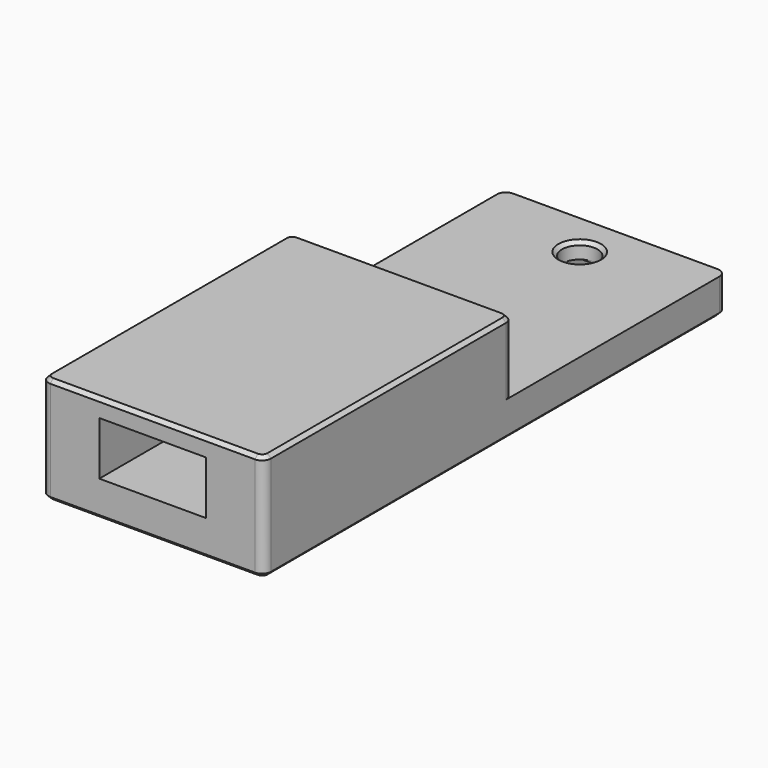
from build123d import *

# Parameters (mm, degrees)
SKETCH_W        = 25
SKETCH_H        = 65
PAD_DEPTH       = 4
SKETCH001_W     = 25
SKETCH001_H     = 35
PAD001_DEPTH    = 8
SKETCH002_W     = 12
SKETCH002_H     = 35
POCKET_DEPTH    = 6
SKETCH003_R     = 2
POCKET001_DEPTH = 4.001
SKETCH004_W     = 4
SKETCH004_H     = 8
POCKET002_DEPTH = 2
SKETCH005_W     = 4
SKETCH005_H     = 4
POCKET003_DEPTH = 0.2
SKETCH006_R     = 3.1
POCKET004_DEPTH = 3.2
FILLET_R        = 1
CHAMFER_SIZE    = 0.4


with BuildPart() as part:
    # Sketch → Pad (new body)
    with BuildSketch(Plane.XY):
        with Locations((0, -32.5)):
            Rectangle(SKETCH_W, SKETCH_H)
    extrude(amount=PAD_DEPTH)

    # Sketch001 (on Face6 of Pad) → Pad001 (join)
    with BuildSketch(Plane.XY.offset(4)):
        with Locations((0, -47.5)):
            Rectangle(SKETCH001_W, SKETCH001_H)
    extrude(amount=PAD001_DEPTH)

    # Sketch002 (on Face5 of Pad001) → Pocket (cut)
    with BuildSketch(Plane.XY.offset(4)):
        with Locations((0, -47.5)):
            Rectangle(SKETCH002_W, SKETCH002_H)
    extrude(amount=POCKET_DEPTH, mode=Mode.SUBTRACT)

    # Sketch003 (on Face5 of Pocket) → Pocket001 (cut, through all)
    with BuildSketch(Plane.XY.offset(4)):
        with Locations((0, -5)):
            Circle(SKETCH003_R)
    extrude(amount=-POCKET001_DEPTH, mode=Mode.SUBTRACT)

    # Sketch004 (on Face4 of Pocket001) → Pocket002 (cut)
    with BuildSketch(Plane(origin=(0, 0, 0), x_dir=(1, 0, 0), z_dir=(0, 0, -1))):
        with Locations((0, 4)):
            Rectangle(SKETCH004_W, SKETCH004_H)
    extrude(amount=-POCKET002_DEPTH, mode=Mode.SUBTRACT)

    # Sketch005 (on Face4 of Pocket002) → Pocket003 (cut)
    with BuildSketch(Plane(origin=(0, 0, 2), x_dir=(1, 0, 0), z_dir=(0, 0, -1))):
        with Locations((0, 5)):
            Rectangle(SKETCH005_W, SKETCH005_H)
    extrude(amount=-POCKET003_DEPTH, mode=Mode.SUBTRACT)

    # Sketch006 (on Face2 of Pocket003) → Pocket004 (cut)
    with BuildSketch(Plane(origin=(0, 0, 0), x_dir=(1, 0, 0), z_dir=(0, 0, -1))):
        with Locations((-7, 59.5)):
            Circle(SKETCH006_R)
        with Locations((7, 59.5)):
            Circle(SKETCH006_R)
        with Locations((-7, 5.5)):
            Circle(SKETCH006_R)
        with Locations((7, 5.5)):
            Circle(SKETCH006_R)
    extrude(amount=-POCKET004_DEPTH, mode=Mode.SUBTRACT)

    # Fillet
    fillet_edges = [part.edges().sort_by_distance(p)[0] for p in [
        (-12.5, -65, 6),
        (12.5, -65, 6),
        (12.5, 0, 2),
        (12.5, -30, 8),
        (-12.5, -30, 8),
        (-6, -30, 7),
        (6, -30, 7),
        (-12.5, 0, 2),
        (2, 0, 1),
        (-2, 0, 1),
    ]]
    fillet(fillet_edges, radius=FILLET_R)

    # Chamfer
    chamfer_edges = [part.edges().sort_by_distance(p)[0] for p in [
        (-7.25, 0, 0),
        (-12.207107, -0.292893, 0),
        (-2.292893, -0.292893, 0),
        (-12.5, -32.5, 0),
        (-2, -4.5, 0),
        (-12.207107, -64.707107, 0),
        (0, -8, 0),
        (0, -65, 0),
        (2, -4.5, 0),
        (12.207107, -64.707107, 0),
        (2.292893, -0.292893, 0),
        (12.5, -32.5, 0),
        (7.25, 0, 0),
        (12.207107, -0.292893, 0),
        (-10.1, -59.5, 0),
        (3.9, -59.5, 0),
        (-10.1, -5.5, 0),
        (3.9, -5.5, 0),
        (0, -65, 12),
        (-12.207107, -64.707107, 12),
        (12.207107, -64.707107, 12),
        (-12.5, -47.5, 12),
        (12.5, -47.5, 12),
        (-12.207107, -30.292893, 12),
        (12.207107, -30.292893, 12),
        (0, -30, 12),
        (-2, -5, 4),
    ]]
    chamfer(chamfer_edges, length=CHAMFER_SIZE)


solid = part.part
